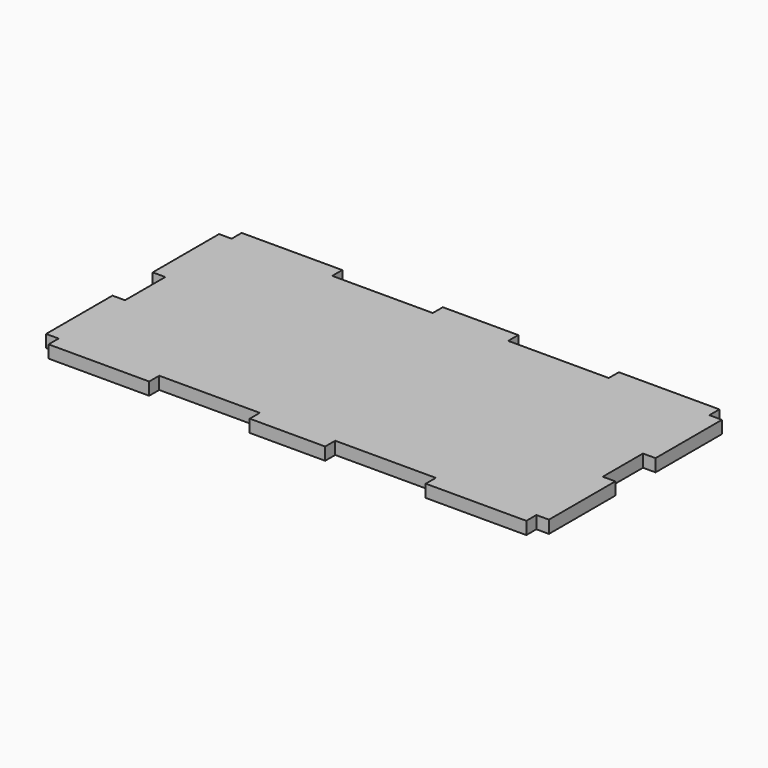
from build123d import *

# Parameters (mm, degrees)
F1_DEPTH = 3.175


with BuildPart() as f1:
    # F0 (on Top) → F1 (new body)
    with BuildSketch(Plane.XY):
        Polygon((-23.080186, 24.931203), (-48.480186, 24.931203), (-48.480186, 21.756203), (-51.655186, 21.756203), (-51.655186, 0.801203), (-48.480186, 0.801203), (-48.480186, -11.898797), (-51.655186, -11.898797), (-51.655186, -32.853797), (-48.480186, -32.853797), (-48.480186, -36.028797), (-23.080186, -36.028797), (-23.080186, -32.853797), (2.319814, -32.853797), (2.319814, -36.028797), (21.369814, -36.028797), (21.369814, -32.853797), (46.769814, -32.853797), (46.769814, -36.028797), (72.169814, -36.028797), (72.169814, -32.853797), (75.344814, -32.853797), (75.344814, -11.898797), (72.169814, -11.898797), (72.169814, 0.801203), (75.344814, 0.801203), (75.344814, 21.756203), (72.169814, 21.756203), (72.169814, 24.931203), (46.769814, 24.931203), (46.769814, 21.756203), (21.369814, 21.756203), (21.369814, 24.931203), (2.319814, 24.931203), (2.319814, 21.756203), (-23.080186, 21.756203), align=None)
    extrude(amount=-F1_DEPTH)


solid = f1.part
